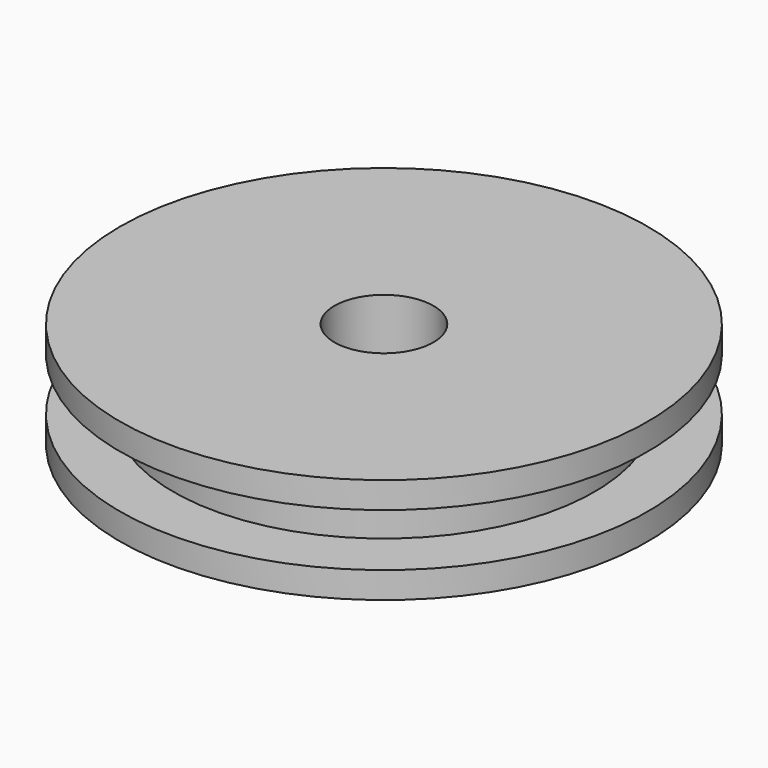
from build123d import *

# Parameters (mm, degrees)
F0_W     = 20.271596
F0_H     = 5.08
F3_D     = 9.525
F3_DEPTH = 50.8


with BuildPart() as f1:
    # F0 (on Front) → F1 (revolve)
    with BuildSketch(Plane.XZ):
        with Locations((-10.135798, 5.08)):
            Rectangle(F0_W, F0_H)
        Polygon((-20.271596, 7.62), (0, 7.62), (0, 10.16), (-25.4, 10.16), (-25.4, 7.62), align=None)
        Polygon((-25.4, 0), (0, 0), (0, 2.54), (-20.271596, 2.54), (-25.4, 2.54), align=None)
    revolve(axis=Axis((0, 0, 5.08), (0, 0, 1)))

    # F3
    with Locations(Plane.XY.offset(10.16)):
        with Locations((0, 0)):
            Hole(F3_D / 2, depth=F3_DEPTH)


solid = f1.part
